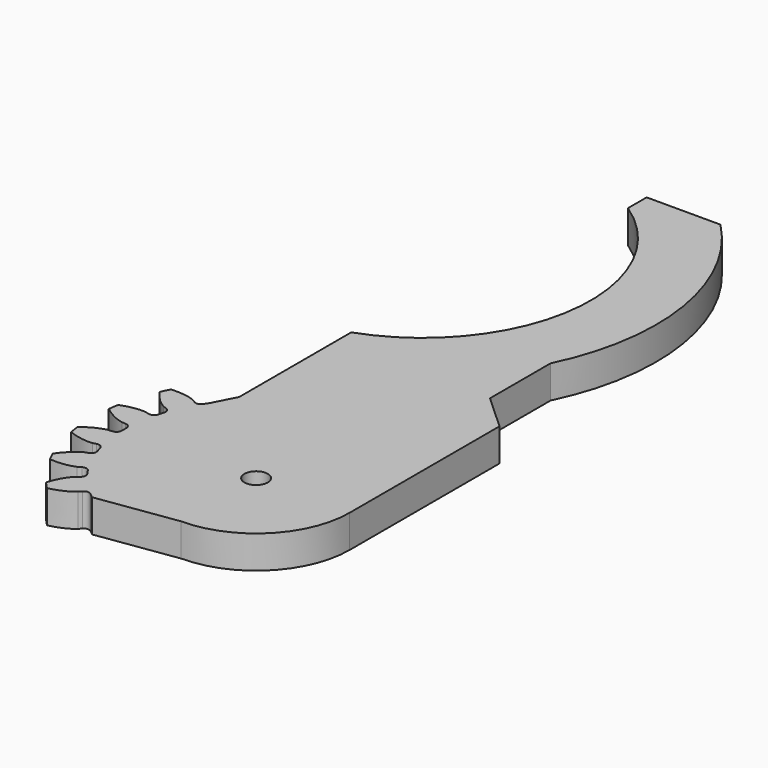
from build123d import *

# Parameters (mm, degrees)
PAD005_DEPTH      = 10
CYLINDER001_R     = 2.5
CYLINDER001_DEPTH = 30
PAD_DEPTH         = 7
PAD001_DEPTH      = 7


with BuildPart() as gearcutter_d:
    # Sketch007 → Pad005 (new body)
    with BuildSketch(Plane.XY):
        with BuildLine():
            Line((20, 31.95888), (45.304215, 31.95888))
            Line((45.304215, 31.95888), (45.304215, -33.652056))
            Line((45.304215, -33.652056), (23.213182, -33.652056))
            Line((-17.372387, -39.01239), (23.213182, -33.652056))
            Line((-25.984375, -33.578197), (-17.372387, -39.01239))
            Line((-17.23691, -22.507347), (-25.984375, -33.578197))
            Line((7e-06, -20), (-17.23691, -22.507347))
            ThreePointArc((7e-06, -20), (14.142138, -14.142133), (20, 0))
            Line((20, 0), (20, 31.95888))
        make_face()
        Polygon((-20, 22.185684), (-22.978563, 16.381247), (-30, 23.81991), (-24.00174, 30), align=None)
    extrude(amount=PAD005_DEPTH)


with BuildPart() as hole:
    # Cylinder001 → Cylinder001 (new body)
    with BuildSketch(Plane.XY.offset(-10)):
        Circle(CYLINDER001_R)
    extrude(amount=CYLINDER001_DEPTH)


with BuildPart() as cut002:
    # InvoluteGear → Pad (new body)
    with BuildSketch(Plane.XY):
        with BuildLine():
            Line((29.216017, -2.627852), (30.02668, -2.698596))
            add(Edge.make_bspline(
                [(30.02668, -2.698596), (30.269336, -2.702327), (31.240634, -2.684194), (32.940327, -2.265756), (35.058609, -1.065575)],
                knots=[0, 0, 0, 0, 0, 1, 1, 1, 1, 1], degree=4))
            ThreePointArc((35.058609, -1.065575), (35.074799, 0), (35.058609, 1.065575))
            add(Edge.make_bspline(
                [(35.058609, 1.065575), (32.940327, 2.265756), (31.240634, 2.684194), (30.269336, 2.702327), (30.02668, 2.698596)],
                knots=[0, 0, 0, 0, 0, 1, 1, 1, 1, 1], degree=4))
            Line((30.02668, 2.698596), (29.216017, 2.627852))
            ThreePointArc((29.216017, 2.627852), (28.398075, 2.874673), (27.979368, 3.61941))
            ThreePointArc((27.979368, 3.61941), (27.89739, 4.204855), (27.803163, 4.788454))
            ThreePointArc((27.803163, 4.788454), (27.983753, 5.62352), (28.692604, 6.100468))
            Line((28.692604, 6.100468), (29.488104, 6.271815))
            add(Edge.make_bspline(
                [(29.488104, 6.271815), (29.72108, 6.339774), (30.64388, 6.643396), (32.144724, 7.544237), (33.815137, 9.315472)],
                knots=[0, 0, 0, 0, 0, 1, 1, 1, 1, 1], degree=4))
            ThreePointArc((33.815137, 9.315472), (33.516524, 10.338478), (33.18697, 11.351941))
            add(Edge.make_bspline(
                [(33.18697, 11.351941), (30.809038, 11.874427), (29.06152, 11.773281), (28.12803, 11.504313), (27.897254, 11.429224)],
                knots=[0, 0, 0, 0, 0, 1, 1, 1, 1, 1], degree=4))
            Line((27.897254, 11.429224), (27.143458, 11.122676))
            ThreePointArc((27.143458, 11.122676), (26.289104, 11.117439), (25.669483, 11.705673))
            ThreePointArc((25.669483, 11.705673), (25.418584, 12.240945), (25.156525, 12.770842))
            ThreePointArc((25.156525, 12.770842), (25.082952, 13.622039), (25.619728, 14.286735))
            Line((25.619728, 14.286735), (26.32938, 14.684947))
            add(Edge.make_bspline(
                [(26.32938, 14.684947), (26.531974, 14.818557), (27.324283, 15.380691), (28.492921, 16.683892), (29.567042, 18.868799)],
                knots=[0, 0, 0, 0, 0, 1, 1, 1, 1, 1], degree=4))
            ThreePointArc((29.567042, 18.868799), (28.980159, 19.758338), (28.366523, 20.629637))
            add(Edge.make_bspline(
                [(28.366523, 20.629637), (25.94023, 20.428003), (24.300163, 19.816261), (23.487425, 19.284092), (23.289034, 19.144315)],
                knots=[0, 0, 0, 0, 0, 1, 1, 1, 1, 1], degree=4))
            Line((23.289034, 19.144315), (22.659084, 18.629202))
            ThreePointArc((22.659084, 18.629202), (21.84423, 18.372372), (21.078752, 18.751836))
            ThreePointArc((21.078752, 18.751836), (20.681226, 19.189373), (20.274619, 19.618485))
            ThreePointArc((20.274619, 19.618485), (19.95342, 20.41018), (20.270426, 21.203563))
            Line((20.270426, 21.203563), (20.831176, 21.793257))
            add(Edge.make_bspline(
                [(20.831176, 21.793257), (20.985387, 21.980647), (21.576804, 22.751344), (22.309397, 24.341109), (22.691785, 26.745549)],
                knots=[0, 0, 0, 0, 0, 1, 1, 1, 1, 1], degree=4))
            ThreePointArc((22.691785, 26.745549), (21.868779, 27.422582), (21.025585, 28.074299))
            add(Edge.make_bspline(
                [(21.025585, 28.074299), (18.766519, 27.166461), (17.37963, 26.098479), (16.759858, 25.350393), (16.611482, 25.15835)],
                knots=[0, 0, 0, 0, 0, 1, 1, 1, 1, 1], degree=4))
            Line((16.611482, 25.15835), (16.161351, 24.480441))
            ThreePointArc((16.161351, 24.480441), (15.4584, 23.994839), (14.615082, 24.131816))
            ThreePointArc((14.615082, 24.131816), (14.10625, 24.432742), (13.591225, 24.72294))
            ThreePointArc((13.591225, 24.72294), (13.05094, 25.384787), (13.120008, 26.236361))
            Line((13.120008, 26.236361), (13.48203, 26.96514))
            add(Edge.make_bspline(
                [(13.48203, 26.96514), (13.574155, 27.18966), (13.912131, 28.10044), (14.143586, 29.835512), (13.800264, 32.245841)],
                knots=[0, 0, 0, 0, 0, 1, 1, 1, 1, 1], degree=4))
            ThreePointArc((13.800264, 32.245841), (12.814263, 32.65021), (11.816433, 33.024437))
            add(Edge.make_bspline(
                [(11.816433, 33.024437), (9.92532, 31.49106), (8.91484, 30.061732), (8.543105, 29.164202), (8.457926, 28.936956)],
                knots=[0, 0, 0, 0, 0, 1, 1, 1, 1, 1], degree=4))
            Line((8.457926, 28.936956), (8.227611, 28.156485))
            ThreePointArc((8.227611, 28.156485), (7.699024, 27.485259), (6.852797, 27.367578))
            ThreePointArc((6.852797, 27.367578), (6.277872, 27.505154), (5.70019, 27.630653))
            ThreePointArc((5.70019, 27.630653), (4.988826, 28.103844), (4.80382, 28.937943))
            Line((4.80382, 28.937943), (4.934946, 29.741053))
            add(Edge.make_bspline(
                [(4.934946, 29.741053), (4.956801, 29.982752), (5.011304, 30.952689), (4.721054, 32.678899), (3.682528, 34.880948)],
                knots=[0, 0, 0, 0, 0, 1, 1, 1, 1, 1], degree=4))
            ThreePointArc((3.682528, 34.880948), (2.621143, 34.976723), (1.557338, 35.040209))
            add(Edge.make_bspline(
                [(1.557338, 35.040209), (0.202213, 33.01754), (-0.342073, 31.353869), (-0.43274, 30.386642), (-0.447153, 30.144385)],
                knots=[0, 0, 0, 0, 0, 1, 1, 1, 1, 1], degree=4))
            Line((-0.447153, 30.144385), (-0.437188, 29.330703))
            ThreePointArc((-0.437188, 29.330703), (-0.744444, 28.533493), (-1.518389, 28.171611))
            ThreePointArc((-1.518389, 28.171611), (-2.108323, 28.133612), (-2.697331, 28.083261))
            ThreePointArc((-2.697331, 28.083261), (-3.516567, 28.325751), (-3.939209, 29.068262))
            Line((-3.939209, 29.068262), (-4.050629, 29.874342))
            add(Edge.make_bspline(
                [(-4.050629, 29.874342), (-4.100987, 30.111745), (-4.3348, 31.054656), (-5.120964, 32.618623), (-6.762416, 34.416729)],
                knots=[0, 0, 0, 0, 0, 1, 1, 1, 1, 1], degree=4))
            ThreePointArc((-6.762416, 34.416729), (-7.804877, 34.195401), (-8.840133, 33.942504))
            add(Edge.make_bspline(
                [(-8.840133, 33.942504), (-9.538861, 31.610267), (-9.56859, 29.860077), (-9.370135, 28.909097), (-9.312501, 28.673354)],
                knots=[0, 0, 0, 0, 0, 1, 1, 1, 1, 1], degree=4))
            Line((-9.312501, 28.673354), (-9.063142, 27.898758))
            ThreePointArc((-9.063142, 27.898758), (-9.121765, 27.046401), (-9.754659, 26.472472))
            ThreePointArc((-9.754659, 26.472472), (-10.307184, 26.262276), (-10.855183, 26.040548))
            ThreePointArc((-10.855183, 26.040548), (-11.709498, 26.030791), (-12.332222, 26.615739))
            Line((-12.332222, 26.615739), (-12.676288, 27.353165))
            add(Edge.make_bspline(
                [(-12.676288, 27.353165), (-12.794385, 27.565178), (-13.295737, 28.39728), (-14.507962, 29.660038), (-16.60649, 30.894434)],
                knots=[0, 0, 0, 0, 0, 1, 1, 1, 1, 1], degree=4))
            ThreePointArc((-16.60649, 30.894434), (-17.537399, 30.375667), (-18.452119, 29.828859))
            add(Edge.make_bspline(
                [(-18.452119, 29.828859), (-18.432366, 27.394282), (-17.944897, 25.713086), (-17.474952, 24.862851), (-17.350392, 24.65457)],
                knots=[0, 0, 0, 0, 0, 1, 1, 1, 1, 1], degree=4))
            Line((-17.350392, 24.65457), (-16.883795, 23.987887))
            ThreePointArc((-16.883795, 23.987887), (-16.688578, 23.156118), (-17.124185, 22.421138))
            ThreePointArc((-17.124185, 22.421138), (-17.590206, 22.057421), (-18.048504, 21.684019))
            ThreePointArc((-18.048504, 21.684019), (-18.861988, 21.422881), (-19.629463, 21.79829))
            Line((-19.629463, 21.79829), (-20.175603, 22.401539))
            add(Edge.make_bspline(
                [(-20.175603, 22.401539), (-20.350945, 22.569323), (-21.07529, 23.216681), (-22.605863, 24.066029), (-24.975004, 24.627032)],
                knots=[0, 0, 0, 0, 0, 1, 1, 1, 1, 1], degree=4))
            ThreePointArc((-24.975004, 24.627032), (-25.711647, 23.856922), (-26.424554, 23.064789))
            add(Edge.make_bspline(
                [(-26.424554, 23.064789), (-25.688074, 20.744196), (-24.726721, 19.281374), (-24.027043, 18.607432), (-23.846625, 18.445118)],
                knots=[0, 0, 0, 0, 0, 1, 1, 1, 1, 1], degree=4))
            Line((-23.846625, 18.445118), (-23.204249, 17.945586))
            ThreePointArc((-23.204249, 17.945586), (-22.772537, 17.208312), (-22.972152, 16.377588))
            ThreePointArc((-22.972152, 16.377588), (-23.310261, 15.892667), (-23.638136, 15.400768))
            ThreePointArc((-23.638136, 15.400768), (-24.338508, 14.911454), (-25.182539, 15.043968))
            Line((-25.182539, 15.043968), (-25.882227, 15.459439))
            add(Edge.make_bspline(
                [(-25.882227, 15.459439), (-26.099234, 15.568085), (-26.982211, 15.973178), (-28.695135, 16.333648), (-31.12438, 16.17141)],
                knots=[0, 0, 0, 0, 0, 1, 1, 1, 1, 1], degree=4))
            ThreePointArc((-31.12438, 16.17141), (-31.601302, 15.218385), (-32.049051, 14.251311))
            add(Edge.make_bspline(
                [(-32.049051, 14.251311), (-30.661284, 12.250897), (-29.311467, 11.136428), (-28.444225, 10.698661), (-28.22398, 10.596737)],
                knots=[0, 0, 0, 0, 0, 1, 1, 1, 1, 1], degree=4))
            Line((-28.22398, 10.596737), (-27.462904, 10.308742))
            ThreePointArc((-27.462904, 10.308742), (-26.833056, 9.731472), (-26.778943, 8.878817))
            ThreePointArc((-26.778943, 8.878817), (-26.959098, 8.31578), (-27.127416, 7.749093))
            ThreePointArc((-27.127416, 7.749093), (-27.652445, 7.075079), (-28.498037, 6.952923))
            Line((-28.498037, 6.952923), (-29.289102, 7.143699))
            add(Edge.make_bspline(
                [(-29.289102, 7.143699), (-29.528492, 7.183554), (-30.491644, 7.310388), (-32.234718, 7.14995), (-34.508218, 6.278888)],
                knots=[0, 0, 0, 0, 0, 1, 1, 1, 1, 1], degree=4))
            ThreePointArc((-34.508218, 6.278888), (-34.683042, 5.227628), (-34.825849, 4.171541))
            add(Edge.make_bspline(
                [(-34.825849, 4.171541), (-32.910105, 2.669052), (-31.29176, 2.001961), (-30.334014, 1.839267), (-30.093511, 1.80679)],
                knots=[0, 0, 0, 0, 0, 1, 1, 1, 1, 1], degree=4))
            Line((-30.093511, 1.80679), (-29.281359, 1.75592))
            ThreePointArc((-29.281359, 1.75592), (-28.50934, 1.389948), (-28.206307, 0.591124))
            ThreePointArc((-28.206307, 0.591124), (-28.2125, 0), (-28.206307, -0.591124))
            ThreePointArc((-28.206307, -0.591124), (-28.50934, -1.389948), (-29.281359, -1.75592))
            Line((-29.281359, -1.75592), (-30.093511, -1.80679))
            add(Edge.make_bspline(
                [(-30.093511, -1.80679), (-30.334014, -1.839267), (-31.29176, -2.001961), (-32.910105, -2.669052), (-34.825849, -4.171541)],
                knots=[0, 0, 0, 0, 0, 1, 1, 1, 1, 1], degree=4))
            ThreePointArc((-34.825849, -4.171541), (-34.683042, -5.227628), (-34.508218, -6.278888))
            add(Edge.make_bspline(
                [(-34.508218, -6.278888), (-32.234718, -7.14995), (-30.491644, -7.310388), (-29.528492, -7.183554), (-29.289102, -7.143699)],
                knots=[0, 0, 0, 0, 0, 1, 1, 1, 1, 1], degree=4))
            Line((-29.289102, -7.143699), (-28.498037, -6.952923))
            ThreePointArc((-28.498037, -6.952923), (-27.652445, -7.075079), (-27.127416, -7.749093))
            ThreePointArc((-27.127416, -7.749093), (-26.959098, -8.31578), (-26.778943, -8.878817))
            ThreePointArc((-26.778943, -8.878817), (-26.833056, -9.731472), (-27.462904, -10.308742))
            Line((-27.462904, -10.308742), (-28.22398, -10.596737))
            add(Edge.make_bspline(
                [(-28.22398, -10.596737), (-28.444225, -10.698661), (-29.311467, -11.136428), (-30.661284, -12.250897), (-32.049051, -14.251311)],
                knots=[0, 0, 0, 0, 0, 1, 1, 1, 1, 1], degree=4))
            ThreePointArc((-32.049051, -14.251311), (-31.601302, -15.218385), (-31.12438, -16.17141))
            add(Edge.make_bspline(
                [(-31.12438, -16.17141), (-28.695135, -16.333648), (-26.982211, -15.973178), (-26.099234, -15.568085), (-25.882227, -15.459439)],
                knots=[0, 0, 0, 0, 0, 1, 1, 1, 1, 1], degree=4))
            Line((-25.882227, -15.459439), (-25.182539, -15.043968))
            ThreePointArc((-25.182539, -15.043968), (-24.338508, -14.911454), (-23.638136, -15.400768))
            ThreePointArc((-23.638136, -15.400768), (-23.310261, -15.892667), (-22.972152, -16.377588))
            ThreePointArc((-22.972152, -16.377588), (-22.772537, -17.208312), (-23.204249, -17.945586))
            Line((-23.204249, -17.945586), (-23.846625, -18.445118))
            add(Edge.make_bspline(
                [(-23.846625, -18.445118), (-24.027043, -18.607432), (-24.726721, -19.281374), (-25.688074, -20.744196), (-26.424554, -23.064789)],
                knots=[0, 0, 0, 0, 0, 1, 1, 1, 1, 1], degree=4))
            ThreePointArc((-26.424554, -23.064789), (-25.711647, -23.856922), (-24.975004, -24.627032))
            add(Edge.make_bspline(
                [(-24.975004, -24.627032), (-22.605863, -24.066029), (-21.07529, -23.216681), (-20.350945, -22.569323), (-20.175603, -22.401539)],
                knots=[0, 0, 0, 0, 0, 1, 1, 1, 1, 1], degree=4))
            Line((-20.175603, -22.401539), (-19.629463, -21.79829))
            ThreePointArc((-19.629463, -21.79829), (-18.861988, -21.422881), (-18.048504, -21.684019))
            ThreePointArc((-18.048504, -21.684019), (-17.590206, -22.057421), (-17.124185, -22.421138))
            ThreePointArc((-17.124185, -22.421138), (-16.688578, -23.156118), (-16.883795, -23.987887))
            Line((-16.883795, -23.987887), (-17.350392, -24.65457))
            add(Edge.make_bspline(
                [(-17.350392, -24.65457), (-17.474952, -24.862851), (-17.944897, -25.713086), (-18.432366, -27.394282), (-18.452119, -29.828859)],
                knots=[0, 0, 0, 0, 0, 1, 1, 1, 1, 1], degree=4))
            ThreePointArc((-18.452119, -29.828859), (-17.537399, -30.375667), (-16.60649, -30.894434))
            add(Edge.make_bspline(
                [(-16.60649, -30.894434), (-14.507962, -29.660038), (-13.295737, -28.39728), (-12.794385, -27.565178), (-12.676288, -27.353165)],
                knots=[0, 0, 0, 0, 0, 1, 1, 1, 1, 1], degree=4))
            Line((-12.676288, -27.353165), (-12.332222, -26.615739))
            ThreePointArc((-12.332222, -26.615739), (-11.709498, -26.030791), (-10.855183, -26.040548))
            ThreePointArc((-10.855183, -26.040548), (-10.307184, -26.262276), (-9.754659, -26.472472))
            ThreePointArc((-9.754659, -26.472472), (-9.121765, -27.046401), (-9.063142, -27.898758))
            Line((-9.063142, -27.898758), (-9.312501, -28.673354))
            add(Edge.make_bspline(
                [(-9.312501, -28.673354), (-9.370135, -28.909097), (-9.56859, -29.860077), (-9.538861, -31.610267), (-8.840133, -33.942504)],
                knots=[0, 0, 0, 0, 0, 1, 1, 1, 1, 1], degree=4))
            ThreePointArc((-8.840133, -33.942504), (-7.804877, -34.195401), (-6.762416, -34.416729))
            add(Edge.make_bspline(
                [(-6.762416, -34.416729), (-5.120964, -32.618623), (-4.3348, -31.054656), (-4.100987, -30.111745), (-4.050629, -29.874342)],
                knots=[0, 0, 0, 0, 0, 1, 1, 1, 1, 1], degree=4))
            Line((-4.050629, -29.874342), (-3.939209, -29.068262))
            ThreePointArc((-3.939209, -29.068262), (-3.516567, -28.325751), (-2.697331, -28.083261))
            ThreePointArc((-2.697331, -28.083261), (-2.108323, -28.133612), (-1.518389, -28.171611))
            ThreePointArc((-1.518389, -28.171611), (-0.744444, -28.533493), (-0.437188, -29.330703))
            Line((-0.437188, -29.330703), (-0.447153, -30.144385))
            add(Edge.make_bspline(
                [(-0.447153, -30.144385), (-0.43274, -30.386642), (-0.342073, -31.353869), (0.202213, -33.01754), (1.557338, -35.040209)],
                knots=[0, 0, 0, 0, 0, 1, 1, 1, 1, 1], degree=4))
            ThreePointArc((1.557338, -35.040209), (2.621143, -34.976723), (3.682528, -34.880948))
            add(Edge.make_bspline(
                [(3.682528, -34.880948), (4.721054, -32.678899), (5.011304, -30.952689), (4.956801, -29.982752), (4.934946, -29.741053)],
                knots=[0, 0, 0, 0, 0, 1, 1, 1, 1, 1], degree=4))
            Line((4.934946, -29.741053), (4.80382, -28.937943))
            ThreePointArc((4.80382, -28.937943), (4.988826, -28.103844), (5.70019, -27.630653))
            ThreePointArc((5.70019, -27.630653), (6.277872, -27.505154), (6.852797, -27.367578))
            ThreePointArc((6.852797, -27.367578), (7.699024, -27.485259), (8.227611, -28.156485))
            Line((8.227611, -28.156485), (8.457926, -28.936956))
            add(Edge.make_bspline(
                [(8.457926, -28.936956), (8.543105, -29.164202), (8.91484, -30.061732), (9.92532, -31.49106), (11.816433, -33.024437)],
                knots=[0, 0, 0, 0, 0, 1, 1, 1, 1, 1], degree=4))
            ThreePointArc((11.816433, -33.024437), (12.814263, -32.65021), (13.800264, -32.245841))
            add(Edge.make_bspline(
                [(13.800264, -32.245841), (14.143586, -29.835512), (13.912131, -28.10044), (13.574155, -27.18966), (13.48203, -26.96514)],
                knots=[0, 0, 0, 0, 0, 1, 1, 1, 1, 1], degree=4))
            Line((13.48203, -26.96514), (13.120008, -26.236361))
            ThreePointArc((13.120008, -26.236361), (13.05094, -25.384787), (13.591225, -24.72294))
            ThreePointArc((13.591225, -24.72294), (14.10625, -24.432742), (14.615082, -24.131816))
            ThreePointArc((14.615082, -24.131816), (15.4584, -23.994839), (16.161351, -24.480441))
            Line((16.161351, -24.480441), (16.611482, -25.15835))
            add(Edge.make_bspline(
                [(16.611482, -25.15835), (16.759858, -25.350393), (17.37963, -26.098479), (18.766519, -27.166461), (21.025585, -28.074299)],
                knots=[0, 0, 0, 0, 0, 1, 1, 1, 1, 1], degree=4))
            ThreePointArc((21.025585, -28.074299), (21.868779, -27.422582), (22.691785, -26.745549))
            add(Edge.make_bspline(
                [(22.691785, -26.745549), (22.309397, -24.341109), (21.576804, -22.751344), (20.985387, -21.980647), (20.831176, -21.793257)],
                knots=[0, 0, 0, 0, 0, 1, 1, 1, 1, 1], degree=4))
            Line((20.831176, -21.793257), (20.270426, -21.203563))
            ThreePointArc((20.270426, -21.203563), (19.95342, -20.41018), (20.274619, -19.618485))
            ThreePointArc((20.274619, -19.618485), (20.681226, -19.189373), (21.078752, -18.751836))
            ThreePointArc((21.078752, -18.751836), (21.84423, -18.372372), (22.659084, -18.629202))
            Line((22.659084, -18.629202), (23.289034, -19.144315))
            add(Edge.make_bspline(
                [(23.289034, -19.144315), (23.487425, -19.284092), (24.300163, -19.816261), (25.94023, -20.428003), (28.366523, -20.629637)],
                knots=[0, 0, 0, 0, 0, 1, 1, 1, 1, 1], degree=4))
            ThreePointArc((28.366523, -20.629637), (28.980159, -19.758338), (29.567042, -18.868799))
            add(Edge.make_bspline(
                [(29.567042, -18.868799), (28.492921, -16.683892), (27.324283, -15.380691), (26.531974, -14.818557), (26.32938, -14.684947)],
                knots=[0, 0, 0, 0, 0, 1, 1, 1, 1, 1], degree=4))
            Line((26.32938, -14.684947), (25.619728, -14.286735))
            ThreePointArc((25.619728, -14.286735), (25.082952, -13.622039), (25.156525, -12.770842))
            ThreePointArc((25.156525, -12.770842), (25.418584, -12.240945), (25.669483, -11.705673))
            ThreePointArc((25.669483, -11.705673), (26.289104, -11.117439), (27.143458, -11.122676))
            Line((27.143458, -11.122676), (27.897254, -11.429224))
            add(Edge.make_bspline(
                [(27.897254, -11.429224), (28.12803, -11.504313), (29.06152, -11.773281), (30.809038, -11.874427), (33.18697, -11.351941)],
                knots=[0, 0, 0, 0, 0, 1, 1, 1, 1, 1], degree=4))
            ThreePointArc((33.18697, -11.351941), (33.516524, -10.338478), (33.815137, -9.315472))
            add(Edge.make_bspline(
                [(33.815137, -9.315472), (32.144724, -7.544237), (30.64388, -6.643396), (29.72108, -6.339774), (29.488104, -6.271815)],
                knots=[0, 0, 0, 0, 0, 1, 1, 1, 1, 1], degree=4))
            Line((29.488104, -6.271815), (28.692604, -6.100468))
            ThreePointArc((28.692604, -6.100468), (27.983753, -5.62352), (27.803163, -4.788454))
            ThreePointArc((27.803163, -4.788454), (27.89739, -4.204855), (27.979368, -3.61941))
            ThreePointArc((27.979368, -3.61941), (28.398075, -2.874673), (29.216017, -2.627852))
        make_face()
    extrude(amount=PAD_DEPTH)

    # Cut: cut hole
    add(hole.part, mode=Mode.SUBTRACT)

    # Cut002: cut gearcutter_d
    add(gearcutter_d.part, mode=Mode.SUBTRACT)


with BuildPart() as clone_of_pad002:
    # Sketch001 → Pad001 (new body)
    with BuildSketch(Plane.XY):
        with BuildLine():
            Line((20.522763, 10), (-20, 10))
            Line((-20, 10), (-20, 40))
            Line((-20, 40), (-12.44178, 46.907085))
            Line((-12.44178, 63.085703), (-12.44178, 46.907085))
            ThreePointArc((-3.272439, 119.933259), (-16.862004, 92.961944), (-12.44178, 63.085703))
            Line((12.5, 119.933259), (-3.272439, 119.933259))
            Line((12.5, 119.933259), (12.5, 114.933259))
            ThreePointArc((12.5, 114.933259), (-3.21942, 80.514127), (20.522763, 51.050835))
            Line((20.522763, 51.050835), (20.522763, 10))
        make_face()
    extrude(amount=PAD001_DEPTH)


with BuildPart() as obj1:
    # Part__Mirroring: instance of Clone of Pad002
    add(clone_of_pad002.part.mirror(Plane(origin=(0, 0, 0), x_dir=(0, -1, 0), z_dir=(1, 0, 0))))

    # Fusion001: union Cut002
    add(cut002.part)


solid = obj1.part
